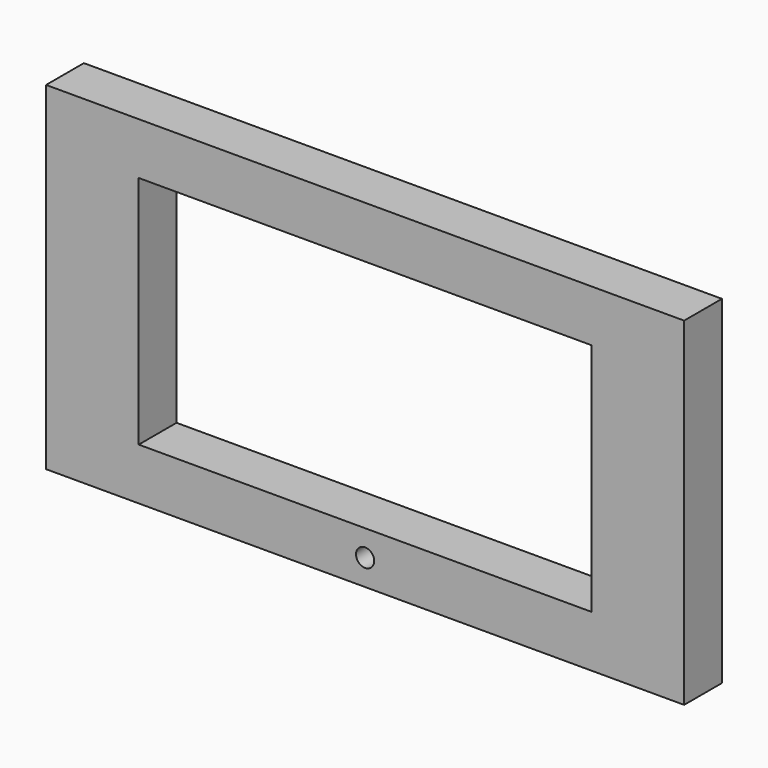
from build123d import *

# Parameters (mm, degrees)
SKETCH_W        = 35.12
SKETCH_H        = 18.62
PAD_DEPTH       = 2.6
SKETCH002_W     = 24.92
SKETCH002_H     = 12.92
POCKET_DEPTH    = 2.6
SKETCH003_R     = 0.5
SKETCH003_W     = 2.01
SKETCH003_H     = 3.5
POCKET001_DEPTH = 5


with BuildPart() as part:
    # Sketch → Pad (new body)
    with BuildSketch(Plane.XZ):
        with Locations((17.56, 9.31)):
            Rectangle(SKETCH_W, SKETCH_H)
    extrude(amount=PAD_DEPTH)

    # Sketch002 (on Face6 of Pad) → Pocket (cut)
    with BuildSketch(Plane.XZ.offset(2.6)):
        with Locations((17.56, 9.31)):
            Rectangle(SKETCH002_W, SKETCH002_H)
    extrude(amount=-POCKET_DEPTH, mode=Mode.SUBTRACT)

    # Sketch003 (on Face4 of Pocket) → Pocket001 (cut)
    with BuildSketch(Plane(origin=(0, 0, 0), x_dir=(1, 0, 0), z_dir=(0, 1, 0))):
        with Locations((17.56, -1.425)):
            Circle(SKETCH003_R)
        with Locations((27.953742, -8.544061)):
            Rectangle(SKETCH003_W, SKETCH003_H)
    extrude(amount=-POCKET001_DEPTH, mode=Mode.SUBTRACT)


solid = part.part
